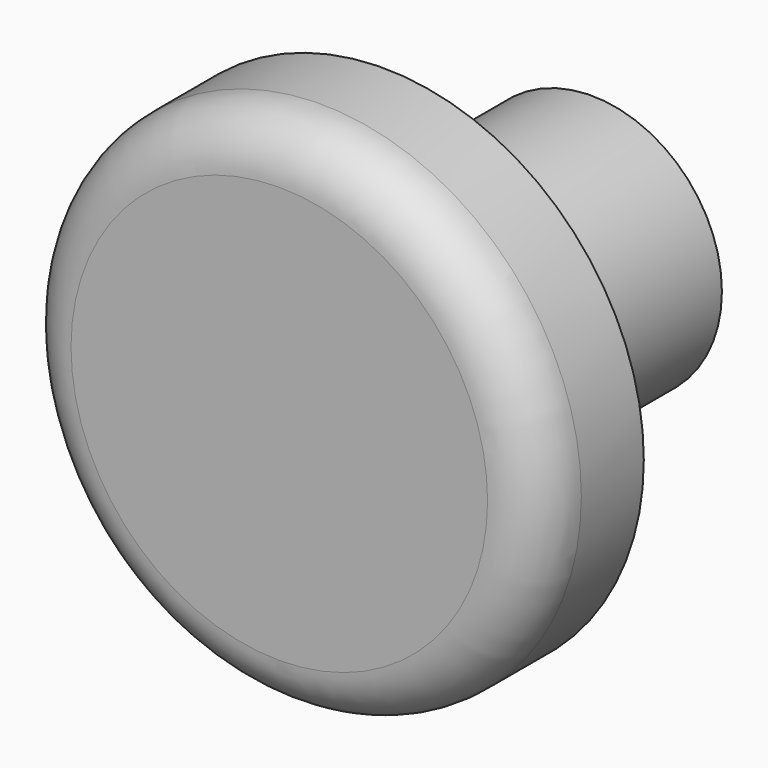
from build123d import *

# Parameters (mm, degrees)
F0_R     = 6.35
F1_DEPTH = 6.35
F2_R     = 12.7
F3_DEPTH = 6.35
F4_R     = 2.54


with BuildPart() as f1:
    # F0 (on Front) → F1 (new body, symmetric)
    with BuildSketch(Plane.XZ):
        Circle(F0_R)
    extrude(amount=F1_DEPTH, both=True)

    # F2 (on face) → F3 (join)
    with BuildSketch(Plane.XZ.offset(6.35)):
        Circle(F2_R)
    extrude(amount=F3_DEPTH)

    # F4
    f4_edges = [f1.edges().sort_by_distance(p)[0] for p in [
        (-12.7, -12.7, 0),
    ]]
    fillet(f4_edges, radius=F4_R)


solid = f1.part
